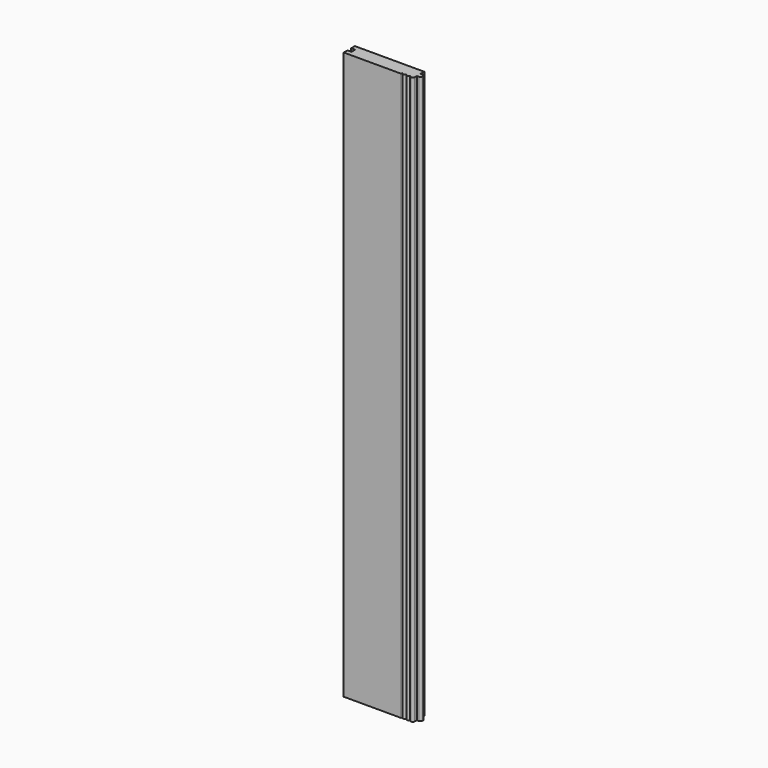
from build123d import *

# Parameters (mm, degrees)
F1_DEPTH = 908.05
F2_R     = 1.27
F3_R     = 3.175


with BuildPart() as f1:
    # F0 (on Top) → F1 (new body)
    with BuildSketch(Plane.XY):
        with BuildLine():
            ThreePointArc((49.2125, -11.1125), (51.457564, -10.182564), (52.3875, -7.9375))
            Line((52.3875, -7.9375), (46.0375, -7.9375))
            ThreePointArc((46.0375, -7.9375), (46.967436, -10.182564), (49.2125, -11.1125))
        make_face()
        with BuildLine():
            ThreePointArc((42.8625, -11.1125), (45.107564, -10.182564), (46.0375, -7.9375))
            Line((46.0375, -7.9375), (39.6875, -7.9375))
            ThreePointArc((39.6875, -7.9375), (40.617436, -10.182564), (42.8625, -11.1125))
        make_face()
        with BuildLine():
            ThreePointArc((36.5125, -11.1125), (38.757564, -10.182564), (39.6875, -7.9375))
            Line((39.6875, -7.9375), (33.3375, -7.9375))
            ThreePointArc((33.3375, -7.9375), (34.267436, -10.182564), (36.5125, -11.1125))
        make_face()
        Polygon((52.3875, 3.704167), (52.3875, 11.1125), (-58.7375, 11.1125), (-58.7375, 3.704167), (-52.3875, 3.704167), (-52.3875, -3.704167), (-58.7375, -3.704167), (-58.7375, -11.1125), (33.3375, -11.1125), (33.3375, -7.9375), (39.6875, -7.9375), (46.0375, -7.9375), (52.3875, -7.9375), (52.3875, -3.704167), (58.7375, -3.704167), (58.7375, 3.704167), align=None)
    extrude(amount=F1_DEPTH)

    # F2
    f2_edges = [f1.edges().sort_by_distance(p)[0] for p in [
        (33.3375, -11.1125, 454.025),
    ]]
    fillet(f2_edges, radius=F2_R)

    # F3
    f3_edges = [f1.edges().sort_by_distance(p)[0] for p in [
        (58.7375, -3.704167, 454.025),
        (58.7375, 3.704167, 454.025),
    ]]
    fillet(f3_edges, radius=F3_R)


solid = f1.part
